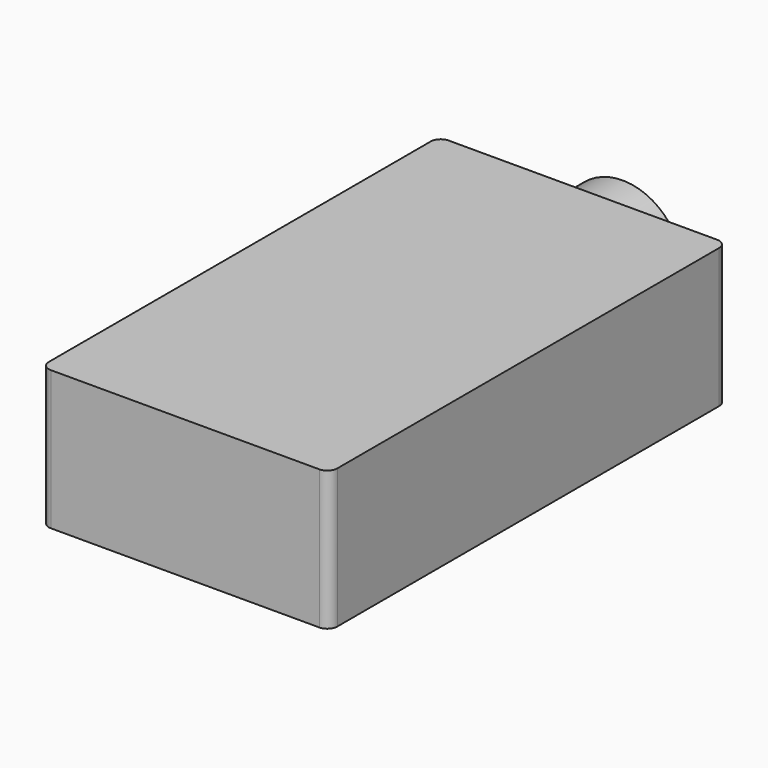
from build123d import *

# Parameters (mm, degrees)
F0_W     = 29
F0_H     = 50
F3_D     = 2
F3_DEPTH = 3
F3_TIP   = 0.600860619
F4_R     = 1
F5_R     = 6
F6_DEPTH = 5


with BuildPart() as f2:
    # F2: sweep along a path in F1
    with BuildLine(Plane.XZ) as f2_path:
        Line((0, 0), (0, 14))
    # F0 (on Top) → F2 (sweep)
    with BuildSketch(Plane.XY):
        Rectangle(F0_W, F0_H)
    sweep(path=f2_path.line)

    # F3
    with Locations(Plane(origin=(0, 0, 0), x_dir=(1, 0, 0), z_dir=(0, 0, -1))):
        with Locations((5, -5), (-5, -5), (-5, 5), (5, 5)):
            Hole(F3_D / 2, depth=F3_DEPTH)
            with Locations((0, 0, -(F3_DEPTH + F3_TIP / 2))):  # 118° drill point
                Cone(0, F3_D / 2, F3_TIP, mode=Mode.SUBTRACT)

    # F4
    f4_edges = [f2.edges().sort_by_distance(p)[0] for p in [
        (14.5, -25, 7),
        (-14.5, -25, 7),
        (14.5, 25, 7),
        (-14.5, 25, 7),
    ]]
    fillet(f4_edges, radius=F4_R)

    # F5 (on face) → F6 (join)
    with BuildSketch(Plane(origin=(0, 25, 0), x_dir=(-1, 0, 0), z_dir=(0, 1, 0))):
        with Locations((0, 6.833284162)):
            Circle(F5_R)
    extrude(amount=F6_DEPTH)


solid = f2.part
